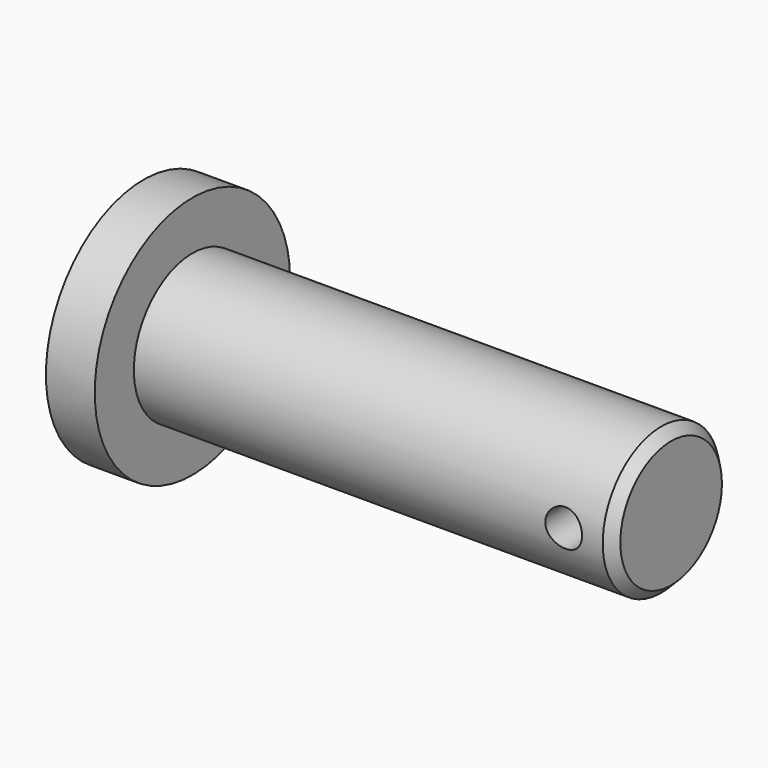
from build123d import *

# Parameters (mm, degrees)
F0_R          = 15.875
F1_DEPTH      = 6.35
F2_R          = 9.525
F3_DEPTH      = 62.23
F4_SIZE2      = 1.27
F4_SIZE       = 1.27
F5_R          = 2.3876
F6_DEPTH      = 15.876
F6_DEPTH_BACK = 25.4


with BuildPart() as f1:
    # F0 (on Right) → F1 (new body)
    with BuildSketch(Plane.YZ):
        Circle(F0_R)
    extrude(amount=F1_DEPTH)

    # F2 (on face) → F3 (join)
    with BuildSketch(Plane.YZ.offset(6.35)):
        Circle(F2_R)
    extrude(amount=F3_DEPTH)

    # F4
    f4_edges = [f1.edges().sort_by_distance(p)[0] for p in [
        (68.58, -9.525, 0),
    ]]
    chamfer(f4_edges, length=F4_SIZE, length2=F4_SIZE2)

    # F5 (on Front) → F6 (cut, two sides)
    with BuildSketch(Plane.XZ) as f6_sk:
        with Locations((62.23, 0)):
            Circle(F5_R)
    extrude(amount=-F6_DEPTH, mode=Mode.SUBTRACT)
    extrude(f6_sk.sketch, amount=F6_DEPTH_BACK, mode=Mode.SUBTRACT)


solid = f1.part
